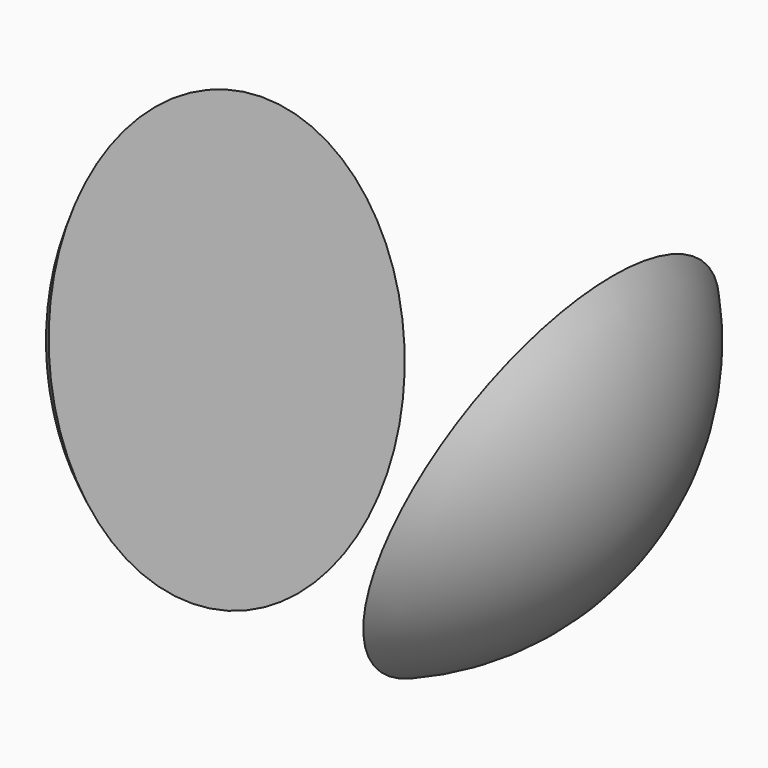
from build123d import *


with BuildPart() as f2:
    # F1 (on Front) → F2 (revolve)
    with BuildSketch(Plane.XZ):
        with BuildLine():
            Line((86.6025403784, 50), (59.5512701892, -22.2857007984))
            Line((59.5512701892, -22.2857007984), (93.6566939469, -35.0488755729))
            ThreePointArc((93.6566939469, -35.0488755729), (99.6577929665, 8.2658515018), (86.6025403784, 50))
        make_face()
    revolve(axis=Axis((76.6039820681, 0, -28.6672881857), (0.9365669395, 0, -0.3504887557)))


with BuildPart() as f3:
    # F1 (on Front) → F3 (revolve)
    with BuildSketch(Plane.XZ):
        with BuildLine():
            Line((-93.6566939469, -35.0488755729), (-59.5512701892, -22.2857007984))
            Line((-59.5512701892, -22.2857007984), (-86.6025403784, 50))
            ThreePointArc((-86.6025403784, 50), (-99.6577929665, 8.2658515018), (-93.6566939469, -35.0488755729))
        make_face()
    revolve(axis=Axis((-76.6039820681, 0, -28.6672881857), (-0.9365669395, 0, -0.3504887557)))


solid = Compound([f2.part, f3.part])
